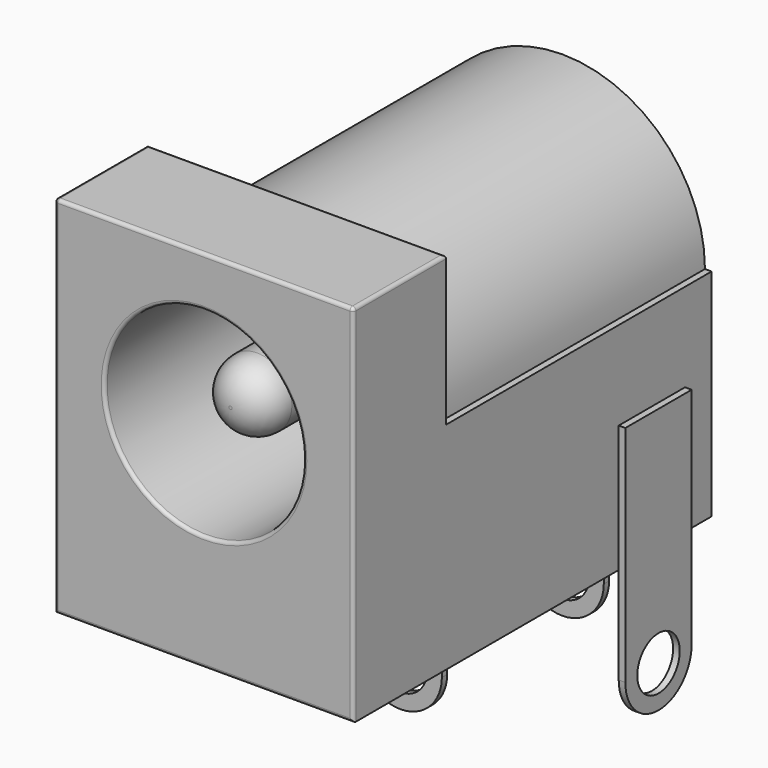
from build123d import *

# Parameters (mm, degrees)
SKETCH_W                = 9
SKETCH_H                = 11
PAD_DEPTH               = 3.5
PAD001_DEPTH            = 13.5
SKETCH002_R             = 3
POCKET_DEPTH            = 11
FILLET_R                = 0.1
SKETCH003_R             = 1.05
PAD002_DEPTH            = 10
FILLET001_R             = 1
SKETCH004_R             = 0.8
PAD003_DEPTH            = 0.1
SKETCH005_R             = 0.8
PAD004_DEPTH            = 0.1
BODY003_PLACEMENT_ANGLE = 90
SKETCH006_R             = 0.8
PAD005_DEPTH            = 0.2
SKETCH007_R             = 1
PAD006_DEPTH            = 0.5


with BuildPart() as body:
    # Sketch → Pad (new body)
    with BuildSketch(Plane.XZ):
        with Locations((0, -1)):
            Rectangle(SKETCH_W, SKETCH_H)
    extrude(amount=-PAD_DEPTH)

    # Sketch001 (on Face5 of Pad) → Pad001 (join)
    with BuildSketch(Plane.XZ):
        with BuildLine():
            Line((-4.5, -6.5), (4.5, -6.5))
            Line((4.5, -6.5), (4.5, 0))
            Line((4.5, 0), (4.3, 0))
            ThreePointArc((4.3, 0), (0, 4.3), (-4.3, 0))
            Line((-4.5, 0), (-4.3, 0))
            Line((-4.5, 0), (-4.5, -6.5))
        make_face()
    extrude(amount=-PAD001_DEPTH)

    # Sketch002 (on Face8 of Pad001) → Pocket (cut)
    with BuildSketch(Plane.XZ):
        Circle(SKETCH002_R)
    extrude(amount=-POCKET_DEPTH, mode=Mode.SUBTRACT)

    # Fillet
    fillet_edges = [body.edges().sort_by_distance(p)[0] for p in [
        (0, 0, 4.5),
        (4.5, 1.75, 4.5),
        (0, 3.5, 4.5),
        (-4.5, 1.75, 4.5),
        (4.5, 0, 2.25),
        (-4.5, 0, 2.25),
        (0, 0, -6.5),
        (-3, 0, 0),
    ]]
    fillet(fillet_edges, radius=FILLET_R)


with BuildPart() as body001:
    # Sketch003 → Pad002 (new body)
    with BuildSketch(Plane.XZ):
        Circle(SKETCH003_R)
    extrude(amount=PAD002_DEPTH)

    # Fillet001
    fillet001_edges = [body001.edges().sort_by_distance(p)[0] for p in [
        (-1.05, -10, 0),
    ]]
    fillet(fillet001_edges, radius=FILLET001_R)


with BuildPart() as body001_1:
    # Body001 placement: moved
    add(body001.part.moved(Location((0, 11, 0))))


with BuildPart() as body002:
    # Sketch004 → Pad003 (new body, symmetric)
    with BuildSketch(Plane.XZ):
        with BuildLine():
            Line((-1.25, -6.5), (1.25, -6.5))
            Line((1.25, -6.5), (1.25, -9.35))
            ThreePointArc((-1.25, -9.35), (0, -10.6), (1.25, -9.35))
            Line((-1.25, -9.35), (-1.25, -6.5))
        make_face()
        with Locations((0, -9.35)):
            Circle(SKETCH004_R, mode=Mode.SUBTRACT)
    extrude(amount=PAD003_DEPTH, both=True)


with BuildPart() as body002_1:
    # Body002 placement: moved
    add(body002.part.moved(Location((0, 7.5, 0))))


with BuildPart() as body003:
    # Sketch005 → Pad004 (new body, symmetric)
    with BuildSketch(Plane.XZ):
        with BuildLine():
            Line((-1.25, -2.5), (1.25, -2.5))
            Line((1.25, -2.5), (1.25, -9.25))
            ThreePointArc((-1.25, -9.25), (0, -10.5), (1.25, -9.25))
            Line((-1.25, -9.25), (-1.25, -2.5))
        make_face()
        with Locations((0, -9.25)):
            Circle(SKETCH005_R, mode=Mode.SUBTRACT)
    extrude(amount=PAD004_DEPTH, both=True)


with BuildPart() as body003_1:
    # Body003 placement: moved
    add(body003.part.moved(Location((4.8, 11, 0))).rotate(Axis((4.8, 11, 0), (0, 0, 1)), BODY003_PLACEMENT_ANGLE))


with BuildPart() as body004:
    # Sketch006 → Pad005 (new body)
    with BuildSketch(Plane.XZ):
        with BuildLine():
            Line((1.25, 0), (1.25, -9.35))
            ThreePointArc((-1.25, -9.35), (0, -10.6), (1.25, -9.35))
            Line((-1.25, -9.35), (-1.25, 0))
            ThreePointArc((1.25, 0), (0, 1.25), (-1.25, 0))
        make_face()
        with Locations((0, -9.35)):
            Circle(SKETCH006_R, mode=Mode.SUBTRACT)
        Circle(SKETCH006_R, mode=Mode.SUBTRACT)
    extrude(amount=-PAD005_DEPTH)

    # Sketch007 → Pad006 (join, symmetric)
    with BuildSketch(Plane.XZ):
        Circle(SKETCH007_R)
    extrude(amount=PAD006_DEPTH, both=True)


with BuildPart() as body004_1:
    # Body004 placement: moved
    add(body004.part.moved(Location((0, 13.5, 0))))


solid = Compound([body.part, body001_1.part, body002_1.part, body003_1.part, body004_1.part])
